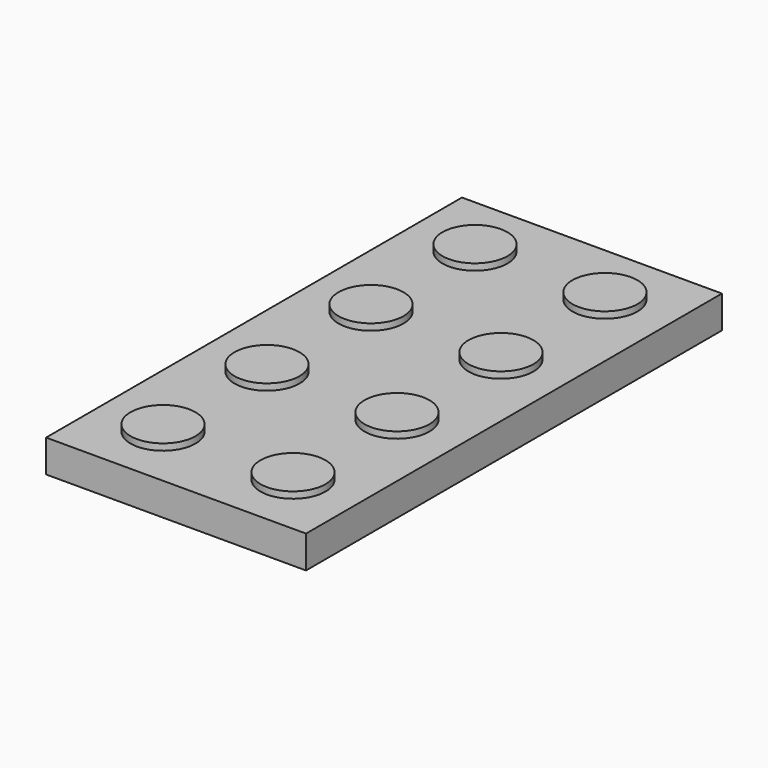
from build123d import *

# Parameters (mm, degrees)
F0_R     = 6.35
F1_DEPTH = 6.35
F2_DEPTH = 7.62


with BuildPart() as f1:
    # F0 (on Top) → F1 (new body)
    with BuildSketch(Plane.XY):
        Polygon((8.453519, 38.1), (-4.246481, 38.1), (-4.246481, 25.4), (-4.246481, 0), (-4.246481, -25.4), (-4.246481, -50.8), (-4.246481, -63.5), (46.553519, -63.5), (46.553519, 38.1), (33.853519, 38.1), align=None)
        with Locations((8.453519, -50.8)):
            Circle(F0_R, mode=Mode.SUBTRACT)
        with Locations((8.453519, -25.4)):
            Circle(F0_R, mode=Mode.SUBTRACT)
        with Locations((33.853519, -50.8)):
            Circle(F0_R, mode=Mode.SUBTRACT)
        with Locations((33.853519, -25.4)):
            Circle(F0_R, mode=Mode.SUBTRACT)
        with Locations((8.453519, 0)):
            Circle(F0_R, mode=Mode.SUBTRACT)
        with Locations((8.453519, 25.4)):
            Circle(F0_R, mode=Mode.SUBTRACT)
        with Locations((33.853519, 0)):
            Circle(F0_R, mode=Mode.SUBTRACT)
        with Locations((33.853519, 25.4)):
            Circle(F0_R, mode=Mode.SUBTRACT)
    extrude(amount=F1_DEPTH)

    # F0 (on Top) → F2 (join)
    with BuildSketch(Plane.XY):
        with Locations((33.853519, -50.8)):
            Circle(F0_R)
        with Locations((8.453519, -50.8)):
            Circle(F0_R)
        with Locations((8.453519, -25.4)):
            Circle(F0_R)
        with Locations((33.853519, -25.4)):
            Circle(F0_R)
        with Locations((33.853519, 0)):
            Circle(F0_R)
        with Locations((8.453519, 0)):
            Circle(F0_R)
        with Locations((8.453519, 25.4)):
            Circle(F0_R)
        with Locations((33.853519, 25.4)):
            Circle(F0_R)
    extrude(amount=F2_DEPTH)


solid = f1.part
